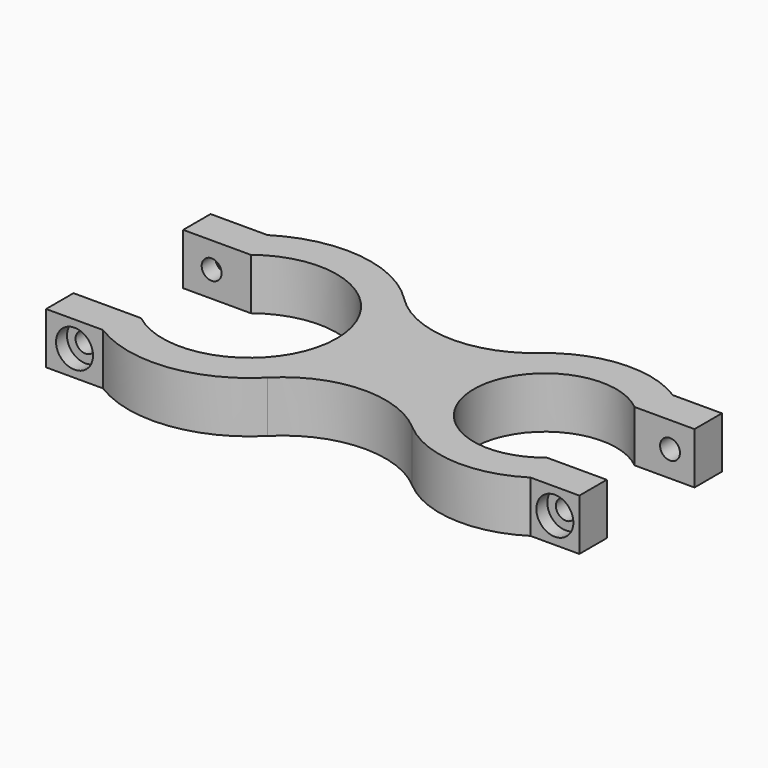
from build123d import *

# Parameters (mm, degrees)
F1_DEPTH = 9.525
F2_R     = 1.8415
F3_DEPTH = 41.53
F4_DEPTH = 3.175
F5_DEPTH = 5.08
F6_R     = 3.429
F6_R_2   = 1.8415
F7_DEPTH = 2.54
F8_R     = 3.429
F8_R_2   = 1.8415
F9_DEPTH = 2.54


with BuildPart() as f1:
    # F0 (on Top) → F1 (new body)
    with BuildSketch(Plane.XY):
        with BuildLine():
            ThreePointArc((-32.258, 0), (-33.9484276618, 8.5522336929), (-38.7654692948, 15.8182062173))
            ThreePointArc((-38.7654692948, 15.8182062173), (-52.1508813913, 22.3297432037), (-66.6702703397, 19.05))
            ThreePointArc((-66.6702703397, 19.05), (-70.3046684409, 16.2158299298), (-73.2846532478, 12.7))
            Line((-73.2846532478, 12.7), (-64.6795671232, 12.7))
            ThreePointArc((-64.6795671232, 12.7), (-47.6736801053, 14.5001432084), (-38.608, 0))
            ThreePointArc((-38.608, 0), (-47.6736801053, -14.5001432084), (-64.6795671232, -12.7))
            Line((-64.6795671232, -12.7), (-73.2846532478, -12.7))
            ThreePointArc((-73.2846532478, -12.7), (-70.3046684409, -16.2158299298), (-66.6702703397, -19.05))
            ThreePointArc((-66.6702703397, -19.05), (-52.1508813913, -22.3297432037), (-38.7654692948, -15.8182062173))
            ThreePointArc((-38.7654692948, -15.8182062173), (-33.9484276618, -8.5522336929), (-32.258, 0))
        make_face()
        with BuildLine():
            ThreePointArc((-73.2846532478, 12.7), (-70.3046684409, 16.2158299298), (-66.6702703397, 19.05))
            Line((-66.6702703397, 19.05), (-77.216, 19.05))
            Line((-77.216, 19.05), (-77.216, 12.7))
            Line((-77.216, 12.7), (-73.2846532478, 12.7))
        make_face()
        with BuildLine():
            Line((-77.216, -19.05), (-66.6702703397, -19.05))
            ThreePointArc((-66.6702703397, -19.05), (-70.3046684409, -16.2158299298), (-73.2846532478, -12.7))
            Line((-73.2846532478, -12.7), (-77.216, -12.7))
            Line((-77.216, -12.7), (-77.216, -19.05))
        make_face()
        with BuildLine():
            ThreePointArc((-12.7811255343, -14.8039925046), (-19.558, 0), (-12.7811255343, 14.8039925046))
            ThreePointArc((-12.7811255343, 14.8039925046), (-25.9732623614, 10.1879602673), (-38.7654692948, 15.8182062173))
            ThreePointArc((-38.7654692948, 15.8182062173), (-33.9484276618, 8.5522336929), (-32.258, 0))
            ThreePointArc((-32.258, 0), (-33.9484276618, -8.5522336929), (-38.7654692948, -15.8182062173))
            ThreePointArc((-38.7654692948, -15.8182062173), (-25.9732623614, -10.1879602673), (-12.7811255343, -14.8039925046))
        make_face()
        with BuildLine():
            ThreePointArc((8.4395298447, -10.16), (-13.208, 0), (8.4395298447, 10.16))
            Line((8.4395298447, 10.16), (16.711964696, 10.16))
            ThreePointArc((16.711964696, 10.16), (13.9642175742, 13.6936478537), (10.4850018598, 16.51))
            ThreePointArc((10.4850018598, 16.51), (-1.4302661905, 19.5056325871), (-12.7811255343, 14.8039925046))
            ThreePointArc((-12.7811255343, 14.8039925046), (-19.558, 0), (-12.7811255343, -14.8039925046))
            ThreePointArc((-12.7811255343, -14.8039925046), (-1.4302661905, -19.5056325871), (10.4850018598, -16.51))
            ThreePointArc((10.4850018598, -16.51), (13.9642175742, -13.6936478537), (16.711964696, -10.16))
            Line((16.711964696, -10.16), (8.4395298447, -10.16))
        make_face()
        with BuildLine():
            Line((19.558, -10.16), (16.711964696, -10.16))
            ThreePointArc((16.711964696, -10.16), (13.9642175742, -13.6936478537), (10.4850018598, -16.51))
            Line((10.4850018598, -16.51), (19.558, -16.51))
            Line((19.558, -16.51), (19.558, -10.16))
        make_face()
        with BuildLine():
            ThreePointArc((10.4850018598, 16.51), (13.9642175742, 13.6936478537), (16.711964696, 10.16))
            Line((16.711964696, 10.16), (19.558, 10.16))
            Line((19.558, 10.16), (19.558, 16.51))
            Line((19.558, 16.51), (10.4850018598, 16.51))
        make_face()
    extrude(amount=F1_DEPTH)

    # F2 (on face) → F3 (cut, through all)
    with BuildSketch(Plane(origin=(0, 19.05, 0), x_dir=(-1, 0, 0), z_dir=(0, 1, 0))):
        with Locations((71.9431351698, 4.7625)):
            Circle(F2_R)
        with Locations((-15.0215009299, 4.7625)):
            Circle(F2_R)
    extrude(amount=-F3_DEPTH, mode=Mode.SUBTRACT)

    # F2 (on face) → F4 (cut)
    with BuildSketch(Plane(origin=(0, 19.05, 0), x_dir=(-1, 0, 0), z_dir=(0, 1, 0))):
        Polygon((69.67010716, 8.6995), (67.3970791502, 4.7625), (69.67010716, 0.8255), (74.2161631796, 0.8255), (76.4891911894, 4.7625), (74.2161631796, 8.6995), align=None)
        with Locations((71.9431351698, 4.7625)):
            Circle(F2_R, mode=Mode.SUBTRACT)
    extrude(amount=-F4_DEPTH, mode=Mode.SUBTRACT)

    # F2 (on face) → F5 (cut)
    with BuildSketch(Plane(origin=(0, 19.05, 0), x_dir=(-1, 0, 0), z_dir=(0, 1, 0))):
        Polygon((-18.9585009299, 7.0355280098), (-18.9585009299, 2.4894719902), (-15.0215009299, 0.2164439804), (-11.0845009299, 2.4894719902), (-11.0845009299, 7.0355280098), (-15.0215009299, 9.3085560196), align=None)
        with Locations((-15.0215009299, 4.7625)):
            Circle(F2_R, mode=Mode.SUBTRACT)
    extrude(amount=-F5_DEPTH, mode=Mode.SUBTRACT)

    # F6 (on face) → F7 (cut)
    with BuildSketch(Plane.XZ.offset(16.51)):
        with Locations((15.0215009299, 4.7625)):
            Circle(F6_R)
        with Locations((15.0215009299, 4.7625)):
            Circle(F6_R_2, mode=Mode.SUBTRACT)
    extrude(amount=-F7_DEPTH, mode=Mode.SUBTRACT)

    # F8 (on face) → F9 (cut)
    with BuildSketch(Plane.XZ.offset(19.05)):
        with Locations((-71.9431351698, 4.7625)):
            Circle(F8_R)
        with Locations((-71.9431351698, 4.7625)):
            Circle(F8_R_2, mode=Mode.SUBTRACT)
    extrude(amount=-F9_DEPTH, mode=Mode.SUBTRACT)


solid = f1.part
